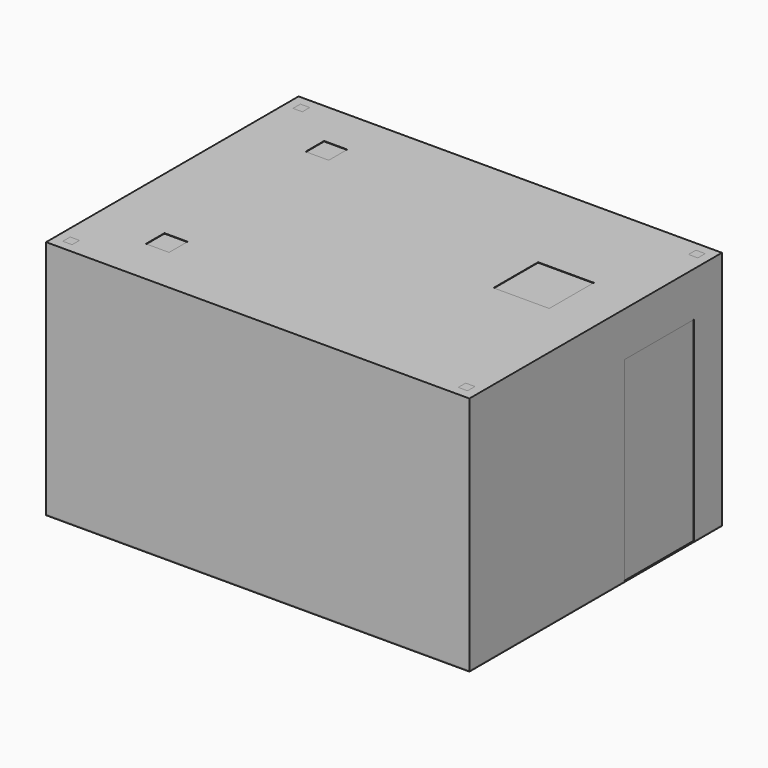
from build123d import *

# Parameters (mm, degrees)
SKETCH001_W     = 4560
SKETCH001_H     = 3400
PAD_DEPTH       = 2580
SKETCH_W        = 935
SKETCH_H        = 2100
POCKET_DEPTH    = 5
SKETCH004_W     = 2000
SKETCH004_H     = 1625
POCKET001_DEPTH = 5
SKETCH002_W     = 250
SKETCH002_H     = 250
SKETCH002_W_2   = 600
SKETCH002_H_2   = 600
POCKET002_DEPTH = 5
SKETCH007_W     = 2000
SKETCH007_H     = 2000
POCKET003_DEPTH = 5
SKETCH006_W     = 4560
SKETCH006_H     = 3400
PAD001_DEPTH    = 10
SKETCH005_W     = 100
SKETCH005_H     = 100
PAD002_DEPTH    = 2580


with BuildPart() as chamber:
    # Sketch001 → Pad (new body)
    with BuildSketch(Plane.XY):
        Rectangle(SKETCH001_W, SKETCH001_H)
    extrude(amount=PAD_DEPTH)

    # Sketch (on DatumPlane) → Pocket (cut)
    with BuildSketch(Plane.YZ.offset(2280)):
        with Locations((857.5, 1050)):
            Rectangle(SKETCH_W, SKETCH_H)
    extrude(amount=-POCKET_DEPTH, mode=Mode.SUBTRACT)

    # Sketch004 (on DatumPlane) → Pocket001 (cut)
    with BuildSketch(Plane.YZ.offset(-2280)):
        with Locations((0, 1612.5)):
            Rectangle(SKETCH004_W, SKETCH004_H)
    extrude(amount=-POCKET001_DEPTH, mode=Mode.SUBTRACT)

    # Sketch002 (on DatumPlane) → Pocket002 (cut)
    with BuildSketch(Plane.XY.offset(2580)):
        with Locations((-1480, 1075)):
            Rectangle(SKETCH002_W, SKETCH002_H)
        with Locations((-1480, -1075)):
            Rectangle(SKETCH002_W, SKETCH002_H)
        with Locations((1480, 300)):
            Rectangle(SKETCH002_W_2, SKETCH002_H_2)
    extrude(amount=-POCKET002_DEPTH, mode=Mode.SUBTRACT)

    # Sketch007 (on Face2 of Pocket002) → Pocket003 (cut)
    with BuildSketch(Plane(origin=(0, 0, 0), x_dir=(1, 0, 0), z_dir=(0, 0, -1))):
        Rectangle(SKETCH007_W, SKETCH007_H)
    extrude(amount=-POCKET003_DEPTH, mode=Mode.SUBTRACT)


with BuildPart() as body001:
    # Sketch006 → Pad001 (new body)
    with BuildSketch(Plane.XY):
        Rectangle(SKETCH006_W, SKETCH006_H)
    extrude(amount=-PAD001_DEPTH)

    # Sketch005 → Pad002 (join)
    with BuildSketch(Plane.XY):
        with Locations((-2130, 1550)):
            Rectangle(SKETCH005_W, SKETCH005_H)
        with Locations((2130, 1550)):
            Rectangle(SKETCH005_W, SKETCH005_H)
        with Locations((2130, -1550)):
            Rectangle(SKETCH005_W, SKETCH005_H)
        with Locations((-2130, -1550)):
            Rectangle(SKETCH005_W, SKETCH005_H)
    extrude(amount=PAD002_DEPTH)


solid = Compound([chamber.part, body001.part])
